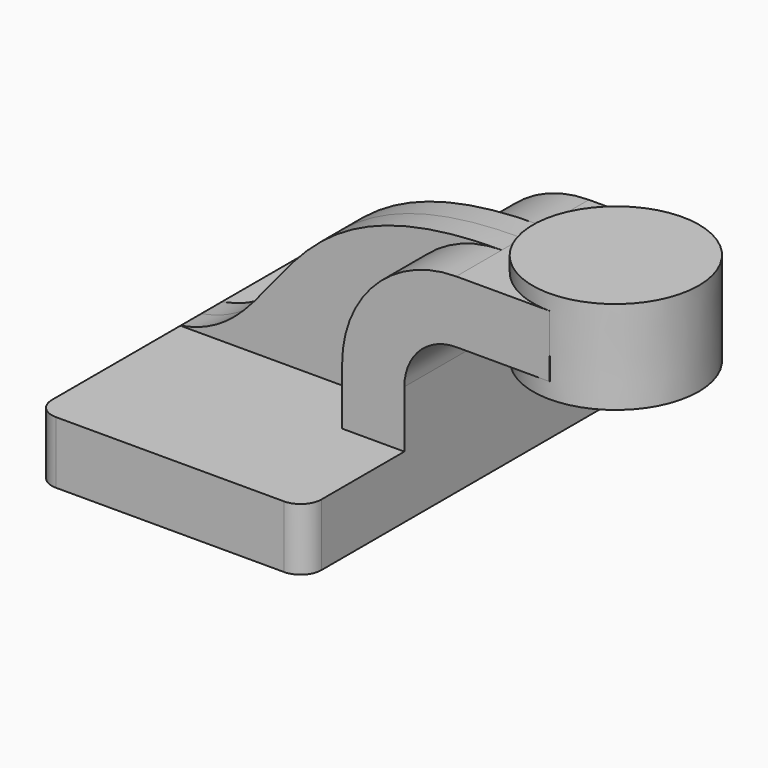
from build123d import *

# Parameters (mm, degrees)
F1_DEPTH = 63.5
F2_DEPTH = 25.4
F3_DEPTH = 7.9375
F5_R     = 6.35


with BuildPart() as f1:
    # F0 (on Front) → F1 (new body, symmetric)
    with BuildSketch(Plane.XZ):
        Polygon((41.275, -9.525), (41.275, 9.525), (22.225, 9.525), (-41.275, 9.525), (-41.275, -9.525), align=None)
    extrude(amount=F1_DEPTH, both=True)

    # F0 (on Front) → F2 (join, symmetric)
    with BuildSketch(Plane.XZ):
        Polygon((60.325, 61.9252), (60.325, 42.8752), (85.7871605643, 42.8752), (85.7374055769, 61.9252), align=None)
        with BuildLine():
            Line((22.225, 9.525), (41.275, 9.525))
            Line((41.275, 9.525), (41.275, 27.0002))
            ThreePointArc((41.275, 27.0002), (45.9246798487, 38.2255201513), (57.15, 42.8752))
            Line((57.15, 42.8752), (60.325, 42.8752))
            Line((60.325, 42.8752), (60.325, 61.9252))
            Line((60.325, 61.9252), (57.15, 61.9252))
            ThreePointArc((57.15, 61.9252), (32.4542956671, 51.6959043329), (22.225, 27.0002))
            Line((22.225, 27.0002), (22.225, 9.525))
        make_face()
    extrude(amount=F2_DEPTH, both=True)

    # F0 (on Front) → F3 (join, symmetric)
    with BuildSketch(Plane.XZ):
        with BuildLine():
            Line((-41.275, 9.525), (22.225, 9.525))
            Line((22.225, 9.525), (22.225, 27.0002))
            ThreePointArc((22.225, 27.0002), (32.4542956671, 51.6959043329), (57.15, 61.9252))
            add(Edge.make_bspline(
                [(-41.275, 9.525), (-6.4429859631, 15.6228393316), (-16.4265278727, 62.1194802225), (57.15, 61.9252)],
                knots=[0, 0, 0, 0, 111.5045361635, 111.5045361635, 111.5045361635, 111.5045361635], degree=3))
        make_face()
    extrude(amount=F3_DEPTH, both=True)

    # F0 (on Front) → F4 (revolve)
    with BuildSketch(Plane.XZ):
        Polygon((85.7374055769, 61.9252), (85.7871605643, 42.8752), (85.7996324812, 38.1), (111.125, 38.1), (111.125, 66.675), (85.725, 66.675), align=None)
    revolve(axis=Axis((85.7623162406, 0, 52.3875), (0.0026118015, 0, -0.9999965892)))

    # F5
    f5_edges = [f1.edges().sort_by_distance(p)[0] for p in [
        (41.275, -63.5, 0),
        (-41.275, -63.5, 0),
        (-41.275, 63.5, 0),
        (41.275, 63.5, 0),
    ]]
    fillet(f5_edges, radius=F5_R)


solid = f1.part
